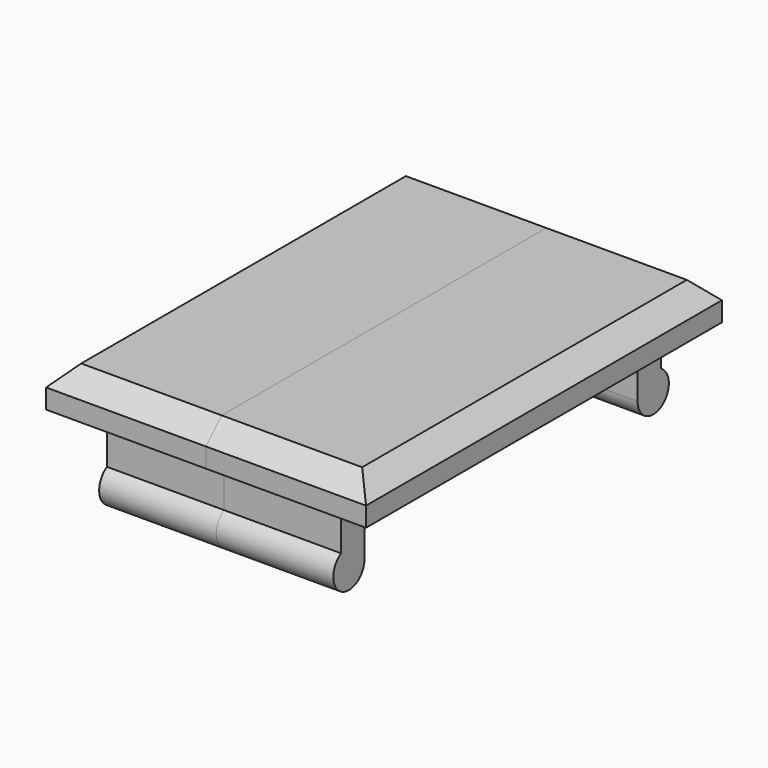
from build123d import *

# Parameters (mm, degrees)
SKETCH_W     = 6
SKETCH_H     = 1.5
PAD_DEPTH    = 3.2
SKETCH001_W  = 8.2
SKETCH001_H  = 11.4
PAD001_DEPTH = 2
CHAMFER_SIZE = 1
SKETCH002_R  = 1
PAD002_DEPTH = 6


with BuildPart() as refine_fix001:
    # Sketch → Pad (new body)
    with BuildSketch(Plane.XY):
        with Locations((3, 9.5)):
            Rectangle(SKETCH_W, SKETCH_H)
    extrude(amount=-PAD_DEPTH)

    # Sketch001 → Pad001 (new body)
    with BuildSketch(Plane.XY):
        with Locations((4.1, 5.7)):
            Rectangle(SKETCH001_W, SKETCH001_H)
    extrude(amount=PAD001_DEPTH)

    # Chamfer
    chamfer_edges = [refine_fix001.edges().sort_by_distance(p)[0] for p in [
        (4.1, 11.4, 2),
        (8.2, 5.7, 2),
    ]]
    chamfer(chamfer_edges, length=CHAMFER_SIZE)

    # Sketch002 → Pad002 (new body)
    with BuildSketch(Plane(origin=(0, 0, 0), x_dir=(0, -1, 0), z_dir=(-1, 0, 0))):
        with Locations((-9.75, -3.2)):
            Circle(SKETCH002_R)
    extrude(amount=-PAD002_DEPTH)


with BuildPart() as part_mirroring:
    # Part__Mirroring: instance of refine_Fix001
    add(refine_fix001.part.mirror(Plane(origin=(0, 0, 0), x_dir=(1, 0, 0), z_dir=(0, 1, 0))))


with BuildPart() as fusion:
    # Fusion base: copy of refine_Fix001
    add(refine_fix001.part)

    # Fusion: union Part__Mirroring
    add(part_mirroring.part)


with BuildPart() as refine_mirroring:
    # Part__Mirroring001: instance of Fusion
    add(fusion.part.mirror(Plane(origin=(0, 0, 0), x_dir=(0, -1, 0), z_dir=(1, 0, 0))))

    # Fusion001: union Fusion
    add(fusion.part)


solid = refine_mirroring.part
